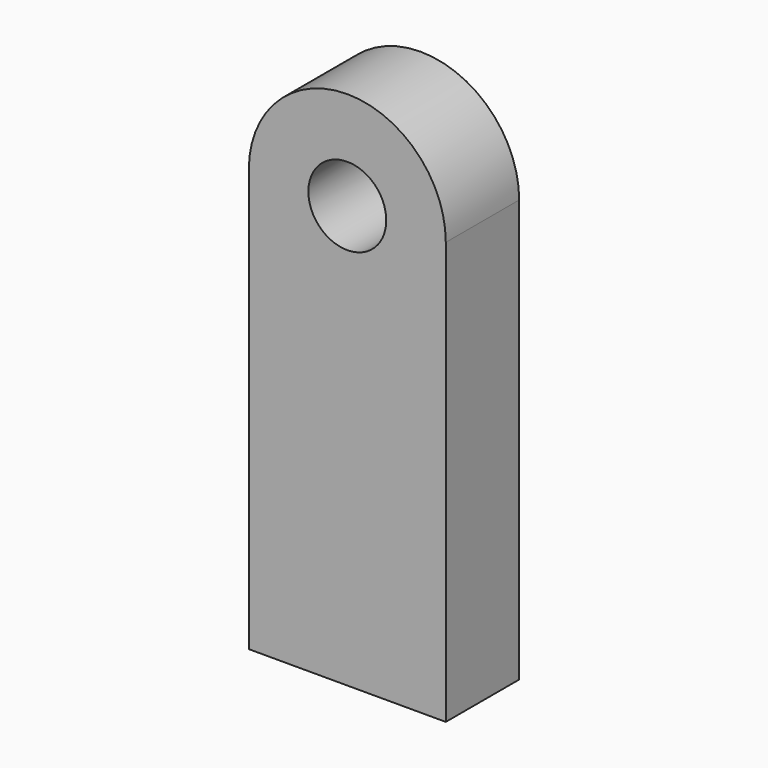
from build123d import *

# Parameters (mm, degrees)
F1_DEPTH = 25.4


with BuildPart() as f1:
    # F0 (on Front) → F1 (new body)
    with BuildSketch(Plane.XZ):
        with BuildLine():
            Line((-27.269803, 58.448035), (-27.269803, -58.448035))
            Line((-27.269803, -58.448035), (27.269803, -58.448035))
            Line((27.269803, -58.448035), (27.269803, 58.448035))
            ThreePointArc((27.269803, 58.448035), (0, 85.717838), (-27.269803, 58.448035))
        make_face()
        with BuildLine():
            ThreePointArc((10.783594, 58.448035), (0, 47.664441), (-10.783594, 58.448035))
            ThreePointArc((-10.783594, 58.448035), (0, 69.231629), (10.783594, 58.448035))
        make_face(mode=Mode.SUBTRACT)
    extrude(amount=F1_DEPTH)


solid = f1.part
